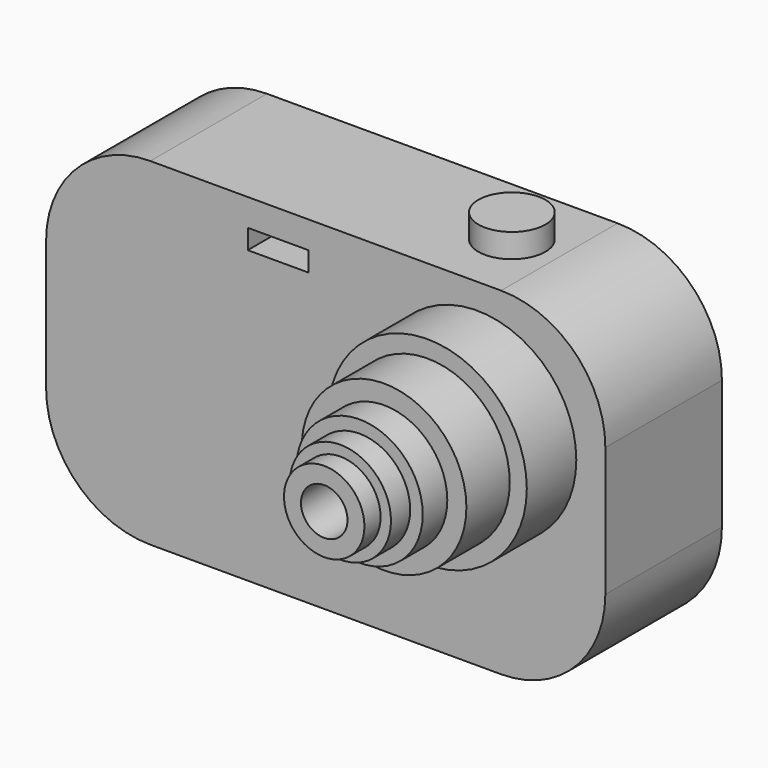
from build123d import *

# Parameters (mm, degrees)
F0_W      = 116.5608018637
F0_H      = 30.3723793477
F1_DEPTH  = 70.4
F2_R      = 21.7279220614
F3_R      = 20.7029342891
F4_DEPTH  = 12.9
F5_R      = 17.1540446216
F6_DEPTH  = 11.3
F7_R      = 13.170324084
F8_DEPTH  = 6.4
F9_R      = 10.5563367541
F10_DEPTH = 5
F11_R     = 8.3829862068
F12_DEPTH = 4.2
F13_W     = 12.9023790359
F13_H     = 4.7707334161
F14_DEPTH = 6.7
F15_W     = 13.5998092592
F15_H     = 4.6233572066
F16_DEPTH = 10
F17_W     = 12.6895718277
F17_H     = 4.1054487228
F18_DEPTH = 6.5
F19_R     = 6.9841097136
F20_DEPTH = 5
F21_R     = 4.8457343359
F22_DEPTH = 39.6


with BuildPart() as f1:
    # F0 (on Top) → F1 (new body)
    with BuildSketch(Plane.XY):
        with Locations((-58.2804009318, 15.1861896738)):
            Rectangle(F0_W, F0_H)
    extrude(amount=F1_DEPTH)

    # F2
    f2_edges = [f1.edges().sort_by_distance(p)[0] for p in [
        (-116.560802, 15.18619, 70.4),
        (0, 15.18619, 70.4),
        (-116.560802, 15.18619, 0),
        (0, 15.18619, 0),
    ]]
    fillet(f2_edges, radius=F2_R)

    # F3 (on face) → F4 (join)
    with BuildSketch(Plane.XZ):
        with Locations((-26.7519634217, 44.41351071)):
            Circle(F3_R)
    extrude(amount=F4_DEPTH)

    # F5 (on face) → F6 (join)
    with BuildSketch(Plane.XZ.offset(12.9)):
        with Locations((-26.7519634217, 44.41351071)):
            Circle(F5_R)
    extrude(amount=F6_DEPTH)

    # F7 (on face) → F8 (join)
    with BuildSketch(Plane.XZ.offset(24.2)):
        with Locations((-26.7519634217, 44.41351071)):
            Circle(F7_R)
    extrude(amount=F8_DEPTH)

    # F9 (on face) → F10 (join)
    with BuildSketch(Plane.XZ.offset(30.6)):
        with Locations((-26.7519634217, 44.41351071)):
            Circle(F9_R)
    extrude(amount=F10_DEPTH)

    # F11 (on face) → F12 (join)
    with BuildSketch(Plane.XZ.offset(35.6)):
        with Locations((-26.7519634217, 44.41351071)):
            Circle(F11_R)
    extrude(amount=F12_DEPTH)

    # F13 (on face) → F14 (join)
    with BuildSketch(Plane.XZ):
        with Locations((-53.0363544822, 61.6516061127)):
            Rectangle(F13_W, F13_H)
    extrude(amount=-F14_DEPTH)

    # F15 (on face) → F16 (join)
    with BuildSketch(Plane.XZ):
        with Locations((-61.4054668695, 60.4561474174)):
            Rectangle(F15_W, F15_H)
    extrude(amount=-F16_DEPTH)

    # F17 (on face) → F18 (cut)
    with BuildSketch(Plane.XZ):
        with Locations((-68.1796912104, 62.7014264464)):
            Rectangle(F17_W, F17_H)
    extrude(amount=-F18_DEPTH, mode=Mode.SUBTRACT)

    # F19 (on face) → F20 (join)
    with BuildSketch(Plane.XY.offset(70.4)):
        with Locations((-31.61893785, 15.1796527207)):
            Circle(F19_R)
    extrude(amount=F20_DEPTH)

    # F21 (on face) → F22 (cut)
    with BuildSketch(Plane.XZ.offset(39.8)):
        with Locations((-26.7519634217, 44.41351071)):
            Circle(F21_R)
    extrude(amount=-F22_DEPTH, mode=Mode.SUBTRACT)


solid = f1.part
